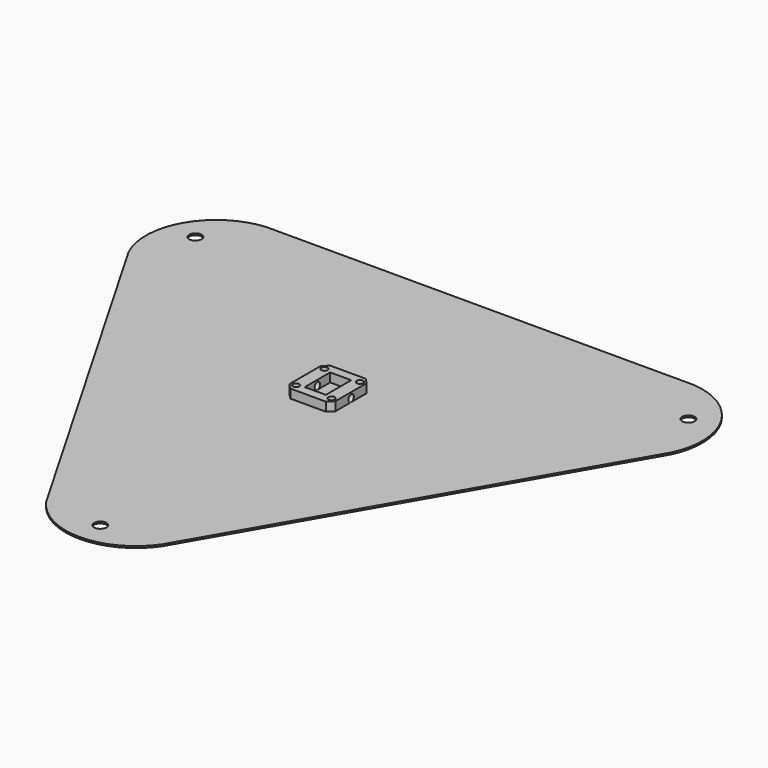
from build123d import *

# Parameters (mm, degrees)
F0_R     = 3.5
F1_DEPTH = 1
F2_W     = 26
F2_H     = 28
F2_R     = 1.85
F2_W_2   = 11.891704
F2_H_2   = 17.913576
F3_DEPTH = 6
F5_D     = 3.9
F5_DEPTH = 45
F6_SIZE  = 3


with BuildPart() as f1:
    # F0 (on Top) → F1 (new body)
    with BuildSketch(Plane.XY):
        with BuildLine():
            Line((120.5, 107.098475), (-120.5, 107.098475))
            ThreePointArc((-120.5, 107.098475), (-151.469164, 87.450763), (-153, 50.806824))
            Line((-153, 50.806824), (-32.5, -157.905299))
            ThreePointArc((-32.5, -157.905299), (0, -174.901525), (32.5, -157.905299))
            Line((32.5, -157.905299), (153, 50.806824))
            ThreePointArc((153, 50.806824), (151.469164, 87.450763), (120.5, 107.098475))
        make_face()
        with Locations((0, -160.405299)):
            Circle(F0_R, mode=Mode.SUBTRACT)
        with Locations((-138.915064, 80.202649)):
            Circle(F0_R, mode=Mode.SUBTRACT)
        with Locations((138.915064, 80.202649)):
            Circle(F0_R, mode=Mode.SUBTRACT)
    extrude(amount=F1_DEPTH)


with BuildPart() as f3:
    # F2 (on Top) → F3 (new body)
    with BuildSketch(Plane.XY):
        Rectangle(F2_W, F2_H)
        with Locations((-10, -10)):
            Circle(F2_R, mode=Mode.SUBTRACT)
        with Locations((10, -10)):
            Circle(F2_R, mode=Mode.SUBTRACT)
        with Locations((-10, 10)):
            Circle(F2_R, mode=Mode.SUBTRACT)
        Rectangle(F2_W_2, F2_H_2, mode=Mode.SUBTRACT)
        with Locations((10, 10)):
            Circle(F2_R, mode=Mode.SUBTRACT)
    extrude(amount=F3_DEPTH)

    # F5
    with Locations(Plane(origin=(-13, 0, 0), x_dir=(0, -1, 0), z_dir=(-1, 0, 0))):
        with Locations((0, 3)):
            Hole(F5_D / 2, depth=F5_DEPTH)

    # F6
    f6_edges = [f3.edges().sort_by_distance(p)[0] for p in [
        (-13, 14, 3),
        (13, 14, 3),
        (-13, -14, 3),
        (13, -14, 3),
    ]]
    chamfer(f6_edges, length=F6_SIZE)


solid = Compound([f1.part, f3.part])
